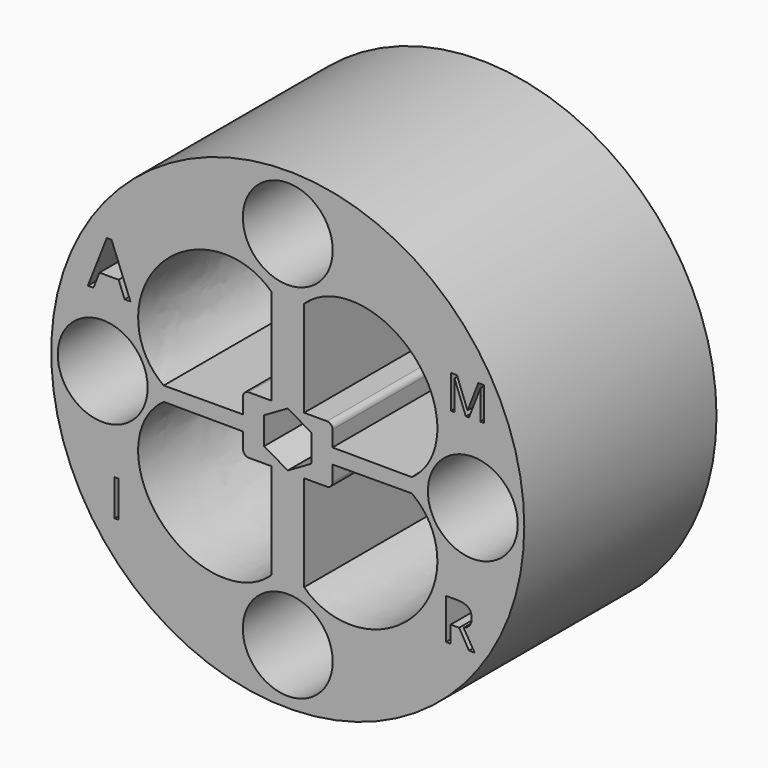
from build123d import *

# Parameters (mm, degrees)
F0_R     = 50
F0_W     = 0.8909073204
F0_H     = 7.6658296548
F0_R_2   = 9.5
F1_DEPTH = 50.8


with BuildPart() as f1:
    # F0 (on Front) → F1 (new body)
    with BuildSketch(Plane.XZ):
        Circle(F0_R)
        with Locations((-36.1827932026, -22.7605821956)):
            Rectangle(F0_W, F0_H, mode=Mode.SUBTRACT)
        with BuildLine():
            add(Edge.make_bspline(
                [(-26.2180610272, -1.514530619), (-39.046874665, -10.6765138668), (-26.8747687945, -23.9734832309), (-14.7026629239, -37.270452595), (-3.4604447998, -26.3752514337)],
                knots=[2.9144324344, 2.9144324344, 2.9144324344, 4.5504484069, 4.5504484069, 6.1864643793, 6.1864643793, 6.1864643793], degree=2, weights=[1, 0.6836763053, 1, 0.6836763053, 1]))
            Line((-26.2180610272, -1.514530619), (-9.4517278188, -1.5823676949))
            Line((-9.4517278188, -1.5823676949), (-9.4517278188, -4.923182711))
            ThreePointArc((-9.4517278188, -4.923182711), (-9.108457703, -5.7519100802), (-8.2797303337, -6.095180196))
            Line((-8.2797303337, -6.095180196), (-3.4604447998, -6.095180196))
            Line((-3.4604447998, -6.095180196), (-3.4604447998, -26.3752514337))
        make_face(mode=Mode.SUBTRACT)
        with Locations((0, -38.2600314915)):
            Circle(F0_R_2, mode=Mode.SUBTRACT)
        with BuildLine():
            add(Edge.make_bspline(
                [(3.4604447998, -26.3752514337), (14.7026629239, -37.270452595), (26.8747687945, -23.9734832309), (39.046874665, -10.6765138668), (26.2180610272, -1.514530619)],
                knots=[0.0967209279, 0.0967209279, 0.0967209279, 1.7327369003, 1.7327369003, 3.3687528727, 3.3687528727, 3.3687528727], degree=2, weights=[1, 0.6836763053, 1, 0.6836763053, 1]))
            Line((3.4604447998, -26.3752514337), (3.4604447998, -6.095180196))
            Line((3.4604447998, -6.095180196), (8.2797303337, -6.095180196))
            ThreePointArc((8.2797303337, -6.095180196), (9.108457703, -5.7519100802), (9.4517278188, -4.923182711))
            Line((9.4517278188, -4.923182711), (9.4517278188, -1.5823676949))
            Line((9.4517278188, -1.5823676949), (26.2180610272, -1.514530619))
        make_face(mode=Mode.SUBTRACT)
        with BuildLine():
            Line((36.2378211289, -23.251237317), (34.4402093255, -23.251237317))
            Line((34.4402093255, -23.251237317), (34.4402093255, -26.8313866109))
            Line((34.4402093255, -26.8313866109), (33.4396518123, -26.8313866109))
            Line((33.4396518123, -26.8313866109), (33.4396518123, -18.2220697037))
            Line((33.4396518123, -18.2220697037), (35.8006660572, -18.2220697037))
            add(Edge.make_bspline(
                [(35.8006660572, -18.2220697037), (37.385353192, -18.2220697037), (38.1418952665, -18.8288107945)],
                knots=[0, 0, 0, 1, 1, 1], degree=2))
            add(Edge.make_bspline(
                [(38.1418952665, -18.8288107945), (38.8984373409, -19.4355518854), (38.8984373409, -20.6546869344)],
                knots=[0, 0, 0, 1, 1, 1], degree=2))
            add(Edge.make_bspline(
                [(38.8984373409, -20.6546869344), (38.8984373409, -22.3618528608), (37.1667756562, -22.9629410844)],
                knots=[0, 0, 0, 1, 1, 1], degree=2))
            Line((37.1667756562, -22.9629410844), (39.5051784318, -26.8313866109))
            Line((39.5051784318, -26.8313866109), (38.3218448757, -26.8313866109))
            Line((38.3218448757, -26.8313866109), (36.2378211289, -23.251237317))
        make_face(mode=Mode.SUBTRACT)
        with Locations((-39.1245670617, 0)):
            Circle(F0_R_2, mode=Mode.SUBTRACT)
        Polygon((-33.2667540933, 14.8699637502), (-34.4876703716, 14.8699637502), (-35.7507637576, 18.0954025725), (-39.8153050402, 18.0954025725), (-41.0628594917, 14.8699637502), (-42.2571375966, 14.8699637502), (-38.2480925085, 25.0546253584), (-37.2558205515, 25.0546253584), align=None, mode=Mode.SUBTRACT)
        with BuildLine():
            Line((-3.4604447998, 26.3752514337), (-3.4604447998, 6.095180196))
            Line((-3.4604447998, 6.095180196), (-8.2797303337, 6.095180196))
            ThreePointArc((-8.2797303337, 6.095180196), (-9.108457703, 5.7519100802), (-9.4517278188, 4.923182711))
            Line((-9.4517278188, 4.923182711), (-9.4517278188, 1.5823676949))
            Line((-9.4517278188, 1.5823676949), (-26.2180610272, 1.514530619))
            add(Edge.make_bspline(
                [(-3.4604447998, 26.3752514337), (-14.7026629239, 37.270452595), (-26.8747687945, 23.9734832309), (-39.046874665, 10.6765138668), (-26.2180610272, 1.514530619)],
                knots=[0.0967209279, 0.0967209279, 0.0967209279, 1.7327369003, 1.7327369003, 3.3687528727, 3.3687528727, 3.3687528727], degree=2, weights=[1, 0.6836763053, 1, 0.6836763053, 1]))
        make_face(mode=Mode.SUBTRACT)
        Polygon((3.1021658797, 3.9824663862), (5, 2.8867513459), (5, -2.8867513459), (0, -5.7735026919), (-5, -2.8867513459), (-5, 2.8867513459), (0, 5.7735026919), align=None, mode=Mode.SUBTRACT)
        with BuildLine():
            add(Edge.make_bspline(
                [(26.2180610272, 1.514530619), (39.046874665, 10.6765138668), (26.8747687945, 23.9734832309), (14.7026629239, 37.270452595), (3.4604447998, 26.3752514337)],
                knots=[2.9144324344, 2.9144324344, 2.9144324344, 4.5504484069, 4.5504484069, 6.1864643793, 6.1864643793, 6.1864643793], degree=2, weights=[1, 0.6836763053, 1, 0.6836763053, 1]))
            Line((26.2180610272, 1.514530619), (9.4517278188, 1.5823676949))
            Line((9.4517278188, 1.5823676949), (9.4517278188, 4.923182711))
            ThreePointArc((9.4517278188, 4.923182711), (9.108457703, 5.7519100802), (8.2797303337, 6.095180196))
            Line((8.2797303337, 6.095180196), (3.4604447998, 6.095180196))
            Line((3.4604447998, 6.095180196), (3.4604447998, 26.3752514337))
        make_face(mode=Mode.SUBTRACT)
        with Locations((39.1245670617, 0)):
            Circle(F0_R_2, mode=Mode.SUBTRACT)
        with BuildLine():
            Line((38.3105899637, 16.5501786396), (37.6492086511, 16.5501786396))
            Line((37.6492086511, 16.5501786396), (35.2540193182, 22.8085765739))
            Line((35.2540193182, 22.8085765739), (35.2153872322, 22.8085765739))
            add(Edge.make_bspline(
                [(35.2153872322, 22.8085765739), (35.2833797036, 22.065295239), (35.2833797036, 21.0407723179)],
                knots=[0, 0, 0, 1, 1, 1], degree=2))
            Line((35.2833797036, 21.0407723179), (35.2833797036, 16.5501786396))
            Line((35.2833797036, 16.5501786396), (34.5246455343, 16.5501786396))
            Line((34.5246455343, 16.5501786396), (34.5246455343, 23.6105786795))
            Line((34.5246455343, 23.6105786795), (35.7608722867, 23.6105786795))
            Line((35.7608722867, 23.6105786795), (37.9968974252, 17.786405392))
            Line((37.9968974252, 17.786405392), (38.0355295112, 17.786405392))
            Line((38.0355295112, 17.786405392), (40.290098051, 23.6105786795))
            Line((40.290098051, 23.6105786795), (41.5170531028, 23.6105786795))
            Line((41.5170531028, 23.6105786795), (41.5170531028, 16.5501786396))
            Line((41.5170531028, 16.5501786396), (40.6965075959, 16.5501786396))
            Line((40.6965075959, 16.5501786396), (40.6965075959, 21.0994930886))
            add(Edge.make_bspline(
                [(40.6965075959, 21.0994930886), (40.6965075959, 21.8814065095), (40.7645000673, 22.7993048732)],
                knots=[0, 0, 0, 1, 1, 1], degree=2))
            Line((40.7645000673, 22.7993048732), (40.7258679813, 22.7993048732))
            Line((40.7258679813, 22.7993048732), (38.3105899637, 16.5501786396))
        make_face(mode=Mode.SUBTRACT)
        with Locations((0, 38.2600314915)):
            Circle(F0_R_2, mode=Mode.SUBTRACT)
    extrude(amount=F1_DEPTH)


solid = f1.part
